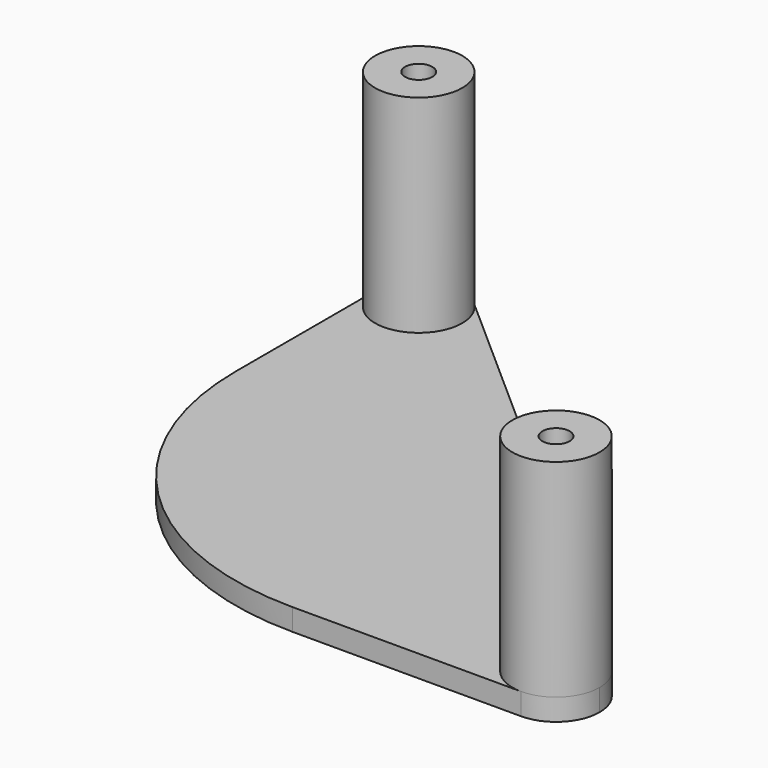
from build123d import *

# Parameters (mm, degrees)
F1_DEPTH = 2
F2_R     = 4
F3_DEPTH = 19
F4_R     = 1.25
F5_DEPTH = 21.001
F6_R     = 1.25
F7_DEPTH = 21.001
F8_R     = 26


with BuildPart() as f1:
    # F0 (on Top) → F1 (new body)
    with BuildSketch(Plane.XY):
        with BuildLine():
            ThreePointArc((-17.5, 19), (-21.5, 15), (-25.5, 19))
            Line((-25.5, 19), (-25.5, -23))
            Line((-25.5, -23), (21.5, -23))
            ThreePointArc((21.5, -23), (17.737893, -17.641123), (24.056121, -15.923274))
            Line((24.056121, -15.923274), (-18.851111, 21.99723))
            ThreePointArc((-18.851111, 21.99723), (-17.853388, 20.643844), (-17.5, 19))
        make_face()
        with BuildLine():
            ThreePointArc((-18.851111, 21.99723), (-23.143844, 22.646612), (-25.5, 19))
            ThreePointArc((-25.5, 19), (-21.5, 15), (-17.5, 19))
            ThreePointArc((-17.5, 19), (-17.853388, 20.643844), (-18.851111, 21.99723))
        make_face()
        with BuildLine():
            ThreePointArc((24.056121, -15.923274), (17.737893, -17.641123), (21.5, -23))
            ThreePointArc((21.5, -23), (24.328427, -21.828427), (25.5, -19))
            ThreePointArc((25.5, -19), (25.121083, -17.30066), (24.056121, -15.923274))
        make_face()
    extrude(amount=F1_DEPTH)

    # F2 (on face) → F3 (join)
    with BuildSketch(Plane.XY.offset(2)):
        with Locations((-21.5, 19)):
            Circle(F2_R)
        with Locations((21.5, -19)):
            Circle(F2_R)
    extrude(amount=F3_DEPTH)

    # F4 (on face) → F5 (cut, through all)
    with BuildSketch(Plane.XY.offset(21)):
        with Locations((-21.5, 19)):
            Circle(F4_R)
    extrude(amount=-F5_DEPTH, mode=Mode.SUBTRACT)

    # F6 (on face) → F7 (cut, through all)
    with BuildSketch(Plane.XY.offset(21)):
        with Locations((21.5, -19)):
            Circle(F6_R)
    extrude(amount=-F7_DEPTH, mode=Mode.SUBTRACT)

    # F8
    f8_edges = [f1.edges().sort_by_distance(p)[0] for p in [
        (-25.5, -23, 1),
    ]]
    fillet(f8_edges, radius=F8_R)


solid = f1.part
